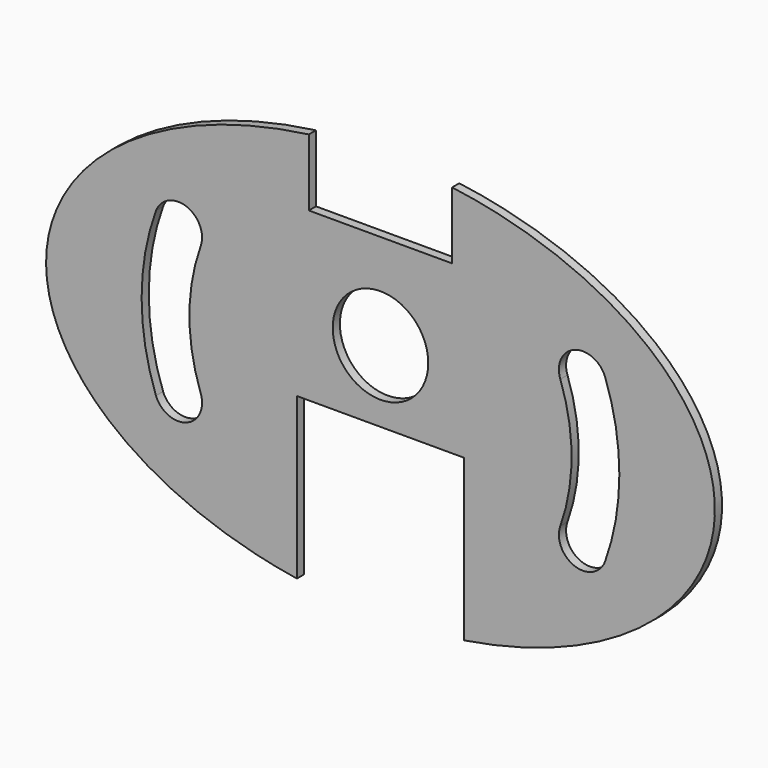
from build123d import *

# Parameters (mm, degrees)
F0_R     = 50.8
F1_DEPTH = 9.525


with BuildPart() as f1:
    # F0 (on Front) → F1 (new body)
    with BuildSketch(Plane.XZ):
        with BuildLine():
            Line((-76.2, 139.7), (-76.2, 210.8848640072))
            add(Edge.make_bspline(
                [(-76.2, 210.8848640072), (-350.3866084273, 174.3642911637), (-355.5400679477, 3.9636750181), (-360.6935274681, -166.4369411274), (-88.9, -209.0442761115)],
                knots=[4.9283494791, 4.9283494791, 4.9283494791, 6.264825429, 6.264825429, 7.6013013788, 7.6013013788, 7.6013013788], degree=2, weights=[1, 0.7849146414, 1, 0.7849146414, 1]))
            Line((-88.9, -209.0442761115), (-88.9, -38.1))
            Line((-88.9, -38.1), (88.9, -38.1))
            Line((88.9, -38.1), (88.9, -209.0442761115))
            add(Edge.make_bspline(
                [(88.9, -209.0442761115), (360.6935274681, -166.4369411274), (355.5400679477, 3.9636750181), (350.3866084273, 174.3642911637), (76.2, 210.8848640072)],
                knots=[1.8234765819, 1.8234765819, 1.8234765819, 3.1599525318, 3.1599525318, 4.4964284817, 4.4964284817, 4.4964284817], degree=2, weights=[1, 0.7849146414, 1, 0.7849146414, 1]))
            Line((76.2, 210.8848640072), (76.2, 139.7))
            Line((76.2, 139.7), (-76.2, 139.7))
        make_face()
        with BuildLine():
            ThreePointArc((-238.7806288296, -86.601450887), (-254, 0), (-238.7806288296, 86.601450887))
            ThreePointArc((-238.7806288296, 86.601450887), (-206.1948067036, 101.1107078148), (-191.2215304553, 68.7354805783))
            ThreePointArc((-191.2215304553, 68.7354805783), (-203.2, 0), (-191.2215304553, -68.7354805783))
            ThreePointArc((-191.2215304553, -68.7354805783), (-206.1948067036, -101.1107078148), (-238.7806288296, -86.601450887))
        make_face(mode=Mode.SUBTRACT)
        with BuildLine():
            ThreePointArc((238.7806288296, -86.601450887), (206.1948067036, -101.1107078148), (191.2215304553, -68.7354805783))
            ThreePointArc((191.2215304553, -68.7354805783), (203.2, 0), (191.2215304553, 68.7354805783))
            ThreePointArc((191.2215304553, 68.7354805783), (206.1948067036, 101.1107078148), (238.7806288296, 86.601450887))
            ThreePointArc((238.7806288296, 86.601450887), (254, 0), (238.7806288296, -86.601450887))
        make_face(mode=Mode.SUBTRACT)
        with Locations((0, 38.1)):
            Circle(F0_R, mode=Mode.SUBTRACT)
    extrude(amount=F1_DEPTH)


solid = f1.part
